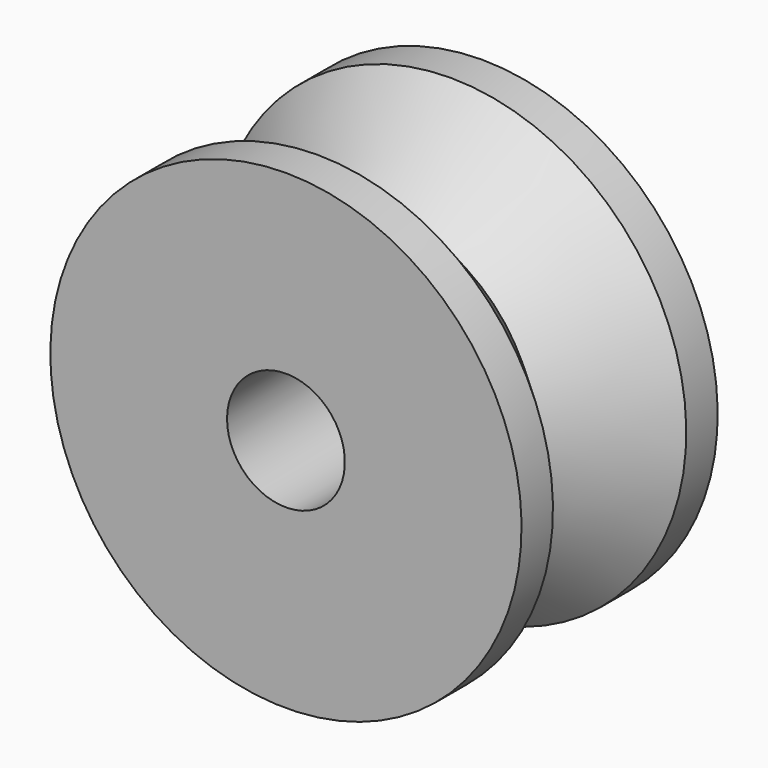
from build123d import *

# Parameters (mm, degrees)
F3_D = 15


with BuildPart() as f1:
    # F0 (on Right) → F1 (revolve)
    with BuildSketch(Plane.YZ):
        Polygon((-31.213203, 0), (0, 0), (0, 30), (-5, 30), (-15.606602, 19.393398), (-26.213203, 30), (-31.213203, 30), align=None)
    revolve(axis=Axis((0, -15.606602, 0), (0, 1, 0)))

    # F3 (through all)
    with Locations(Plane(origin=(0, 0, 0), x_dir=(1, 0, 0), z_dir=(0, 1, 0))):
        with Locations((0, 0)):
            Hole(F3_D / 2)


solid = f1.part
